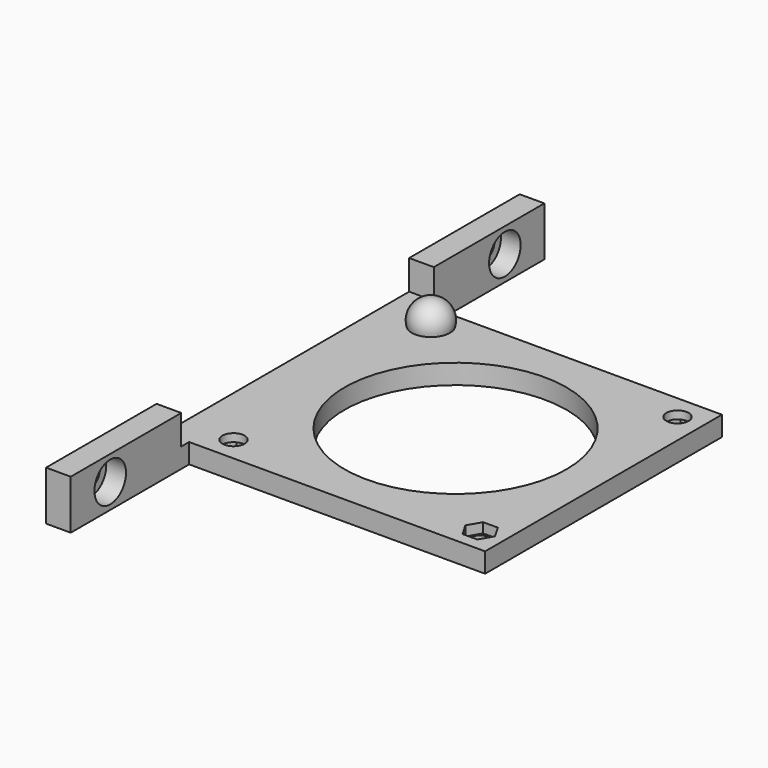
from build123d import *

# Parameters (mm, degrees)
CYLINDER014_R             = 4
CYLINDER014_DEPTH         = 4
CYLINDER015_R             = 2.4
CYLINDER015_DEPTH         = 10
FUSION014_PLACEMENT_ANGLE = 90
CYLINDER016_R             = 4
CYLINDER016_DEPTH         = 4
CYLINDER017_R             = 2.4
CYLINDER017_DEPTH         = 10
FUSION015_PLACEMENT_ANGLE = 90
FUSION016_PLACEMENT_ANGLE = 270
BOX003_W                  = 5
BOX003_H                  = 64
BOX003_DEPTH              = 6
BOX002_W                  = 5
BOX002_H                  = 120
BOX002_DEPTH              = 10
CYLINDER021_R             = 22.5
CYLINDER021_DEPTH         = 10
CYLINDER018_R             = 2.25
CYLINDER018_DEPTH         = 10
EXTRUDE_DEPTH             = 2.4
CYLINDER019_R             = 2.25
CYLINDER019_DEPTH         = 10
CYLINDER020_R             = 2.25
CYLINDER020_DEPTH         = 10
BOX004_W                  = 60
BOX004_H                  = 60
BOX004_DEPTH              = 4


with BuildPart() as cylinder014:
    # Cylinder014 → Cylinder014 (new body)
    with BuildSketch(Plane.XY):
        Circle(CYLINDER014_R)
    extrude(amount=CYLINDER014_DEPTH)


with BuildPart() as fusion014:
    # Cylinder015 → Cylinder015 (new body)
    with BuildSketch(Plane.XY):
        Circle(CYLINDER015_R)
    extrude(amount=CYLINDER015_DEPTH)

    # Fusion014: union Cylinder014
    add(cylinder014.part)


with BuildPart() as fusion014_1:
    # Fusion014 placement: moved
    add(fusion014.part.moved(Location((-50, 0, 5))).rotate(Axis((-50, 0, 5), (1, 0, 0)), FUSION014_PLACEMENT_ANGLE))


with BuildPart() as cylinder016:
    # Cylinder016 → Cylinder016 (new body)
    with BuildSketch(Plane.XY):
        Circle(CYLINDER016_R)
    extrude(amount=CYLINDER016_DEPTH)


with BuildPart() as fusion016:
    # Cylinder017 → Cylinder017 (new body)
    with BuildSketch(Plane.XY):
        Circle(CYLINDER017_R)
    extrude(amount=CYLINDER017_DEPTH)

    # Fusion015: union Cylinder016
    add(cylinder016.part)


with BuildPart() as fusion016_1:
    # Fusion015 placement: moved
    add(fusion016.part.moved(Location((50, 0, 5))).rotate(Axis((50, 0, 5), (1, 0, 0)), FUSION015_PLACEMENT_ANGLE))

    # Fusion016: union Fusion014
    add(fusion014_1.part)


with BuildPart() as fusion016_2:
    # Fusion016 placement: moved
    add(fusion016_1.part.moved(Location((0, 30, 0))).rotate(Axis((0, 30, 0), (0, 0, 1)), FUSION016_PLACEMENT_ANGLE))


with BuildPart() as cube003:
    # Box003 → Box003 (new body)
    with BuildSketch(Plane(origin=(-5, -2, 4), x_dir=(1, 0, 0), z_dir=(0, 0, 1))):
        with Locations((2.5, 32)):
            Rectangle(BOX003_W, BOX003_H)
    extrude(amount=BOX003_DEPTH)


with BuildPart() as cut004:
    # Box002 → Box002 (new body)
    with BuildSketch(Plane(origin=(-5, -30, 0), x_dir=(1, 0, 0), z_dir=(0, 0, 1))):
        with Locations((2.5, 60)):
            Rectangle(BOX002_W, BOX002_H)
    extrude(amount=BOX002_DEPTH)

    # Cut003: cut Cube003
    add(cube003.part, mode=Mode.SUBTRACT)

    # Cut004: cut Fusion016
    add(fusion016_2.part, mode=Mode.SUBTRACT)


with BuildPart() as sphere001:
    # Sphere001 → Sphere001 (revolve)
    with BuildSketch(Plane(origin=(5, 55, 5), x_dir=(1, 0, 0), z_dir=(0, -1, 0))):
        with BuildLine():
            ThreePointArc((0, -4), (4, 0), (0, 4))
            Line((0, 4), (0, -4))
        make_face()
    revolve(axis=Axis((5, 55, 5), (0, 0, 1)))


with BuildPart() as cylinder021:
    # Cylinder021 → Cylinder021 (new body)
    with BuildSketch(Plane(origin=(30, 30, 0), x_dir=(1, 0, 0), z_dir=(0, 0, 1))):
        Circle(CYLINDER021_R)
    extrude(amount=CYLINDER021_DEPTH)


with BuildPart() as cylinder018:
    # Cylinder018 → Cylinder018 (new body)
    with BuildSketch(Plane(origin=(5, 5, 0), x_dir=(1, 0, 0), z_dir=(0, 0, 1))):
        Circle(CYLINDER018_R)
    extrude(amount=CYLINDER018_DEPTH)


with BuildPart() as din934_m007:
    # Sketch → Extrude (new body)
    with BuildSketch(Plane.XY):
        Polygon((-3.005, 0), (-1.5025, -2.602406), (1.5025, -2.602406), (3.005, 0), (1.5025, 2.602406), (-1.5025, 2.602406), align=None)
    extrude(amount=EXTRUDE_DEPTH)


with BuildPart() as fusion018:
    # Link004 base: copy of DIN934_M007
    add(din934_m007.part)


with BuildPart() as fusion018_1:
    # Link004 placement: moved
    add(fusion018.part.moved(Location((5, 5, 0))))

    # Fusion018: union Cylinder018
    add(cylinder018.part)


with BuildPart() as cylinder019:
    # Cylinder019 → Cylinder019 (new body)
    with BuildSketch(Plane(origin=(55, 5, -3), x_dir=(1, 0, 0), z_dir=(0, 0, 1))):
        Circle(CYLINDER019_R)
    extrude(amount=CYLINDER019_DEPTH)


with BuildPart() as fusion019:
    # Link005 base: copy of DIN934_M007
    add(din934_m007.part)


with BuildPart() as fusion019_1:
    # Link005 placement: moved
    add(fusion019.part.moved(Location((55, 5, 0))))

    # Fusion019: union Cylinder019
    add(cylinder019.part)


with BuildPart() as fusion019_2:
    # Fusion019 placement: moved
    add(fusion019_1.part.moved(Location((0, 0, 2))))


with BuildPart() as cylinder020:
    # Cylinder020 → Cylinder020 (new body)
    with BuildSketch(Plane(origin=(55, 55, 0), x_dir=(1, 0, 0), z_dir=(0, 0, 1))):
        Circle(CYLINDER020_R)
    extrude(amount=CYLINDER020_DEPTH)


with BuildPart() as compound002:
    # Link003 base: copy of DIN934_M007
    add(din934_m007.part)


with BuildPart() as compound002_1:
    # Link003 placement: moved
    add(compound002.part.moved(Location((55, 55, 0))))

    # Fusion017: union Cylinder020
    add(cylinder020.part)

    # Compound002: union Fusion018, Fusion019
    add(fusion018_1.part)
    add(fusion019_2.part)


with BuildPart() as obj1:
    # Box004 → Box004 (new body)
    with BuildSketch(Plane.XY):
        with Locations((30, 30)):
            Rectangle(BOX004_W, BOX004_H)
    extrude(amount=BOX004_DEPTH)

    # Cut005: cut Compound002
    add(compound002_1.part, mode=Mode.SUBTRACT)

    # Cut006: cut Cylinder021
    add(cylinder021.part, mode=Mode.SUBTRACT)

    # Fusion020: union Sphere001
    add(sphere001.part)

    # Fusion021: union Cut004
    add(cut004.part)


solid = obj1.part
